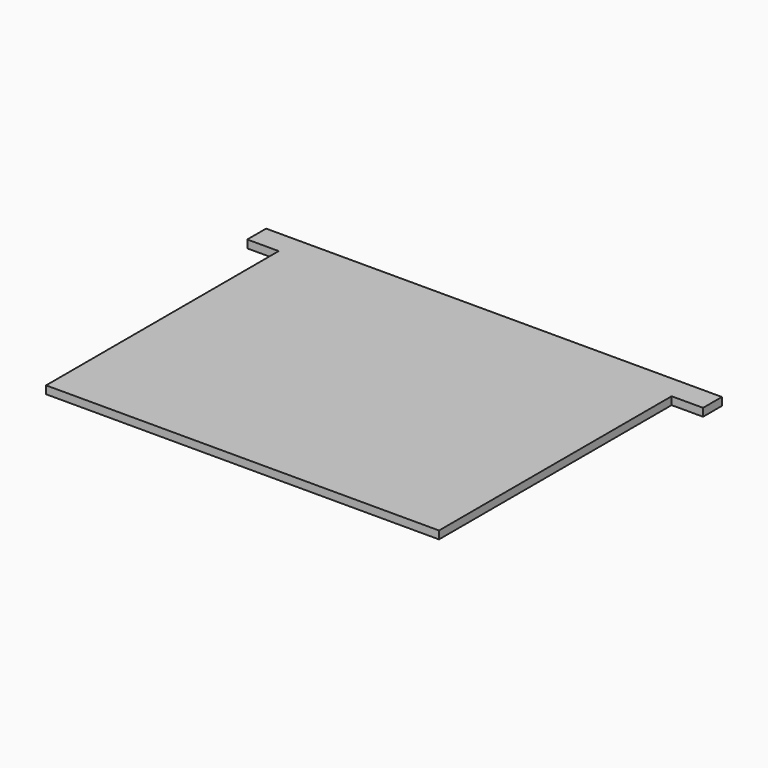
from build123d import *

# Parameters (mm, degrees)
PAD_DEPTH = 1


with BuildPart() as part:
    # Sketch → Pad (new body)
    with BuildSketch(Plane.XY):
        Polygon((-25, -20), (25, -20), (25, 17), (29, 17), (29, 20), (25, 20), (-25, 20), (-29, 20), (-29, 17), (-25, 17), align=None)
    extrude(amount=PAD_DEPTH)


solid = part.part
